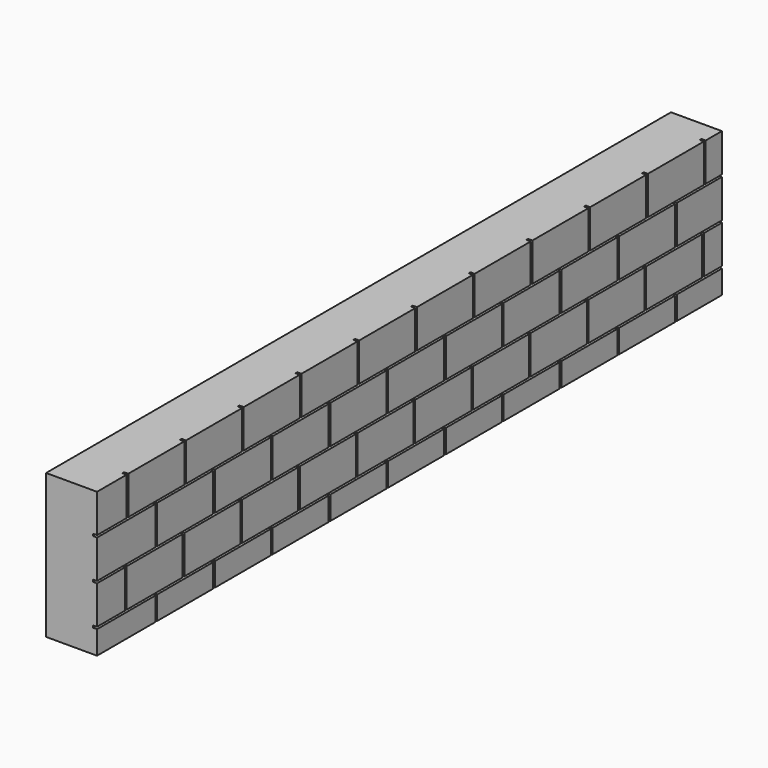
from build123d import *

# Parameters (mm, degrees)
F0_W     = 4673.6
F0_H     = 863.6
F1_DEPTH = 304.8
F2_W     = 4973.870874
F2_H     = 12.7
F2_W_2   = 5047.692343
F2_W_3   = 5047.768645
F3_DEPTH = 25.4
F4_W     = 12.7
F4_H     = 228.6
F4_H_2   = 139.7
F5_DEPTH = 25.4


with BuildPart() as f1:
    # F0 (on Right) → F1 (new body)
    with BuildSketch(Plane.YZ):
        with Locations((-2336.8, 431.8)):
            Rectangle(F0_W, F0_H)
    extrude(amount=F1_DEPTH)

    # F2 (on face) → F3 (cut)
    with BuildSketch(Plane.YZ.offset(304.8)):
        with Locations((-2338.139236, 628.65)):
            Rectangle(F2_W, F2_H)
        with Locations((-2319.762207, 387.35)):
            Rectangle(F2_W_2, F2_H)
        with Locations((-2421.243641, 146.05)):
            Rectangle(F2_W_3, F2_H)
    extrude(amount=-F3_DEPTH, mode=Mode.SUBTRACT)

    # F4 (on face) → F5 (cut)
    with BuildSketch(Plane.YZ.offset(304.8)):
        with Locations((-4446.238081, 749.3)):
            Rectangle(F4_W, F4_H)
        with Locations((-4230.338081, 508)):
            Rectangle(F4_W, F4_H)
        with Locations((-4458.938081, 266.7)):
            Rectangle(F4_W, F4_H)
        with Locations((-4230.338081, 69.85)):
            Rectangle(F4_W, F4_H_2)
        with Locations((-4027.138081, 266.7)):
            Rectangle(F4_W, F4_H)
        with Locations((-3798.538081, 69.85)):
            Rectangle(F4_W, F4_H_2)
        with Locations((-3798.538081, 508)):
            Rectangle(F4_W, F4_H)
        with Locations((-4014.438081, 749.3)):
            Rectangle(F4_W, F4_H)
        with Locations((-3595.338081, 266.7)):
            Rectangle(F4_W, F4_H)
        with Locations((-3366.738081, 69.85)):
            Rectangle(F4_W, F4_H_2)
        with Locations((-3366.738081, 508)):
            Rectangle(F4_W, F4_H)
        with Locations((-3582.638081, 749.3)):
            Rectangle(F4_W, F4_H)
        with Locations((-3163.538081, 266.7)):
            Rectangle(F4_W, F4_H)
        with Locations((-2934.938081, 69.85)):
            Rectangle(F4_W, F4_H_2)
        with Locations((-2934.938081, 508)):
            Rectangle(F4_W, F4_H)
        with Locations((-3150.838081, 749.3)):
            Rectangle(F4_W, F4_H)
        with Locations((-2731.738081, 266.7)):
            Rectangle(F4_W, F4_H)
        with Locations((-2503.138081, 69.85)):
            Rectangle(F4_W, F4_H_2)
        with Locations((-2503.138081, 508)):
            Rectangle(F4_W, F4_H)
        with Locations((-2719.038081, 749.3)):
            Rectangle(F4_W, F4_H)
        with Locations((-2299.938081, 266.7)):
            Rectangle(F4_W, F4_H)
        with Locations((-2071.338081, 69.85)):
            Rectangle(F4_W, F4_H_2)
        with Locations((-2071.338081, 508)):
            Rectangle(F4_W, F4_H)
        with Locations((-2287.238081, 749.3)):
            Rectangle(F4_W, F4_H)
        with Locations((-1868.138081, 266.7)):
            Rectangle(F4_W, F4_H)
        with Locations((-1639.538081, 69.85)):
            Rectangle(F4_W, F4_H_2)
        with Locations((-1639.538081, 508)):
            Rectangle(F4_W, F4_H)
        with Locations((-1855.438081, 749.3)):
            Rectangle(F4_W, F4_H)
        with Locations((-1436.338081, 266.7)):
            Rectangle(F4_W, F4_H)
        with Locations((-1207.738081, 69.85)):
            Rectangle(F4_W, F4_H_2)
        with Locations((-1207.738081, 508)):
            Rectangle(F4_W, F4_H)
        with Locations((-1423.638081, 749.3)):
            Rectangle(F4_W, F4_H)
        with Locations((-1004.538081, 266.7)):
            Rectangle(F4_W, F4_H)
        with Locations((-775.938081, 69.85)):
            Rectangle(F4_W, F4_H_2)
        with Locations((-775.938081, 508)):
            Rectangle(F4_W, F4_H)
        with Locations((-991.838081, 749.3)):
            Rectangle(F4_W, F4_H)
        with Locations((-572.738081, 266.7)):
            Rectangle(F4_W, F4_H)
        with Locations((-344.138081, 69.85)):
            Rectangle(F4_W, F4_H_2)
        with Locations((-344.138081, 508)):
            Rectangle(F4_W, F4_H)
        with Locations((-560.038081, 749.3)):
            Rectangle(F4_W, F4_H)
        with Locations((-140.938081, 266.7)):
            Rectangle(F4_W, F4_H)
        with Locations((87.661919, 69.85)):
            Rectangle(F4_W, F4_H_2)
        with Locations((87.661919, 508)):
            Rectangle(F4_W, F4_H)
        with Locations((-128.238081, 749.3)):
            Rectangle(F4_W, F4_H)
    extrude(amount=-F5_DEPTH, mode=Mode.SUBTRACT)


solid = f1.part
